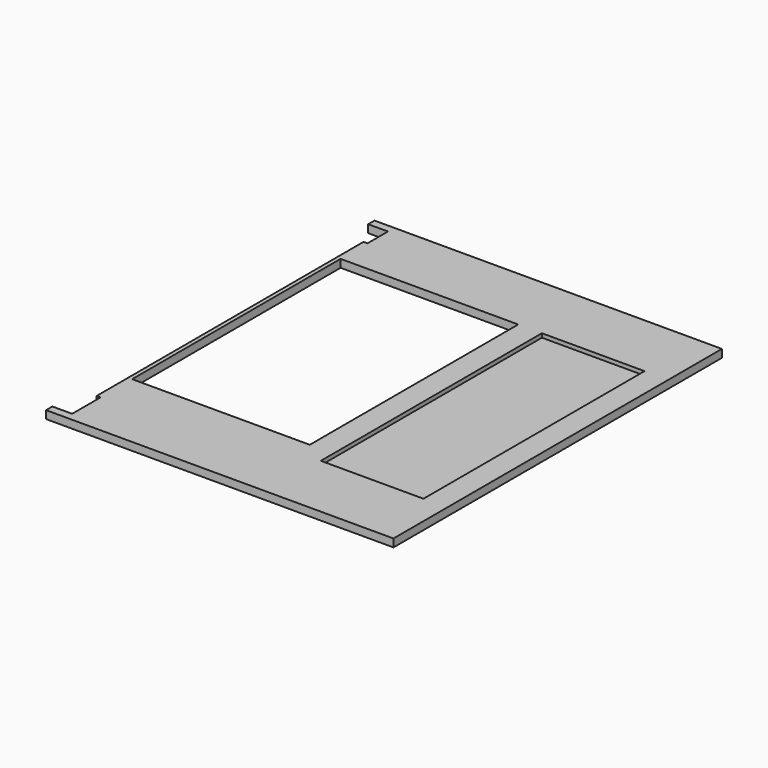
from build123d import *

# Parameters (mm, degrees)
SKETCH093_W      = 26
SKETCH093_H      = 70
EXTRUDE081_DEPTH = 1
SKETCH_W         = 45
SKETCH_H         = 66
EXTRUDE_DEPTH    = 2


with BuildPart() as extrude081:
    # Sketch093 → Extrude081 (new body, symmetric)
    with BuildSketch(Plane.XY.offset(-22)):
        with Locations((62, 50)):
            Rectangle(SKETCH093_W, SKETCH093_H)
    extrude(amount=EXTRUDE081_DEPTH, both=True)


with BuildPart() as cut012:
    # Sketch → Extrude (new body)
    with BuildSketch(Plane(origin=(0, 0, -22), x_dir=(1, 0, 0), z_dir=(0, 0, -1))):
        Polygon((-7, 2), (81, 2), (81, -102), (-7, -102), (-7, -100), (-2, -100), (-2, -93.5), (-3, -93.5), (-3, -9), (-2, -9), (-2, 0), (-7, 0), align=None)
        with Locations((20.5, -52)):
            Rectangle(SKETCH_W, SKETCH_H, mode=Mode.SUBTRACT)
    extrude(amount=EXTRUDE_DEPTH)

    # Cut012: cut Extrude081
    add(extrude081.part, mode=Mode.SUBTRACT)


solid = cut012.part
